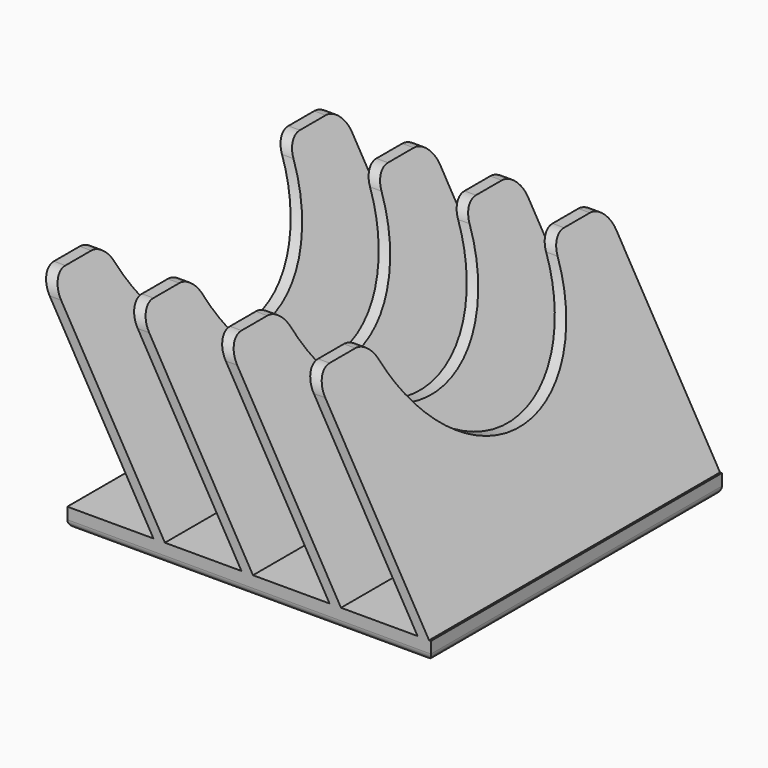
from build123d import *

# Parameters (mm, degrees)
SKETCH024_W     = 95
SKETCH024_H     = 95
PAD016_DEPTH    = 5
PAD017_DEPTH    = 95
SKETCH029_R     = 30
POCKET009_DEPTH = 102.501
FILLET022_R     = 5
FILLET023_R     = 2


with BuildPart() as part:
    # Sketch024 → Pad016 (new body)
    with BuildSketch(Plane.XY):
        Rectangle(SKETCH024_W, SKETCH024_H)
    extrude(amount=PAD016_DEPTH)

    # Sketch025 (on DatumPlane) → Pad017 (join)
    with BuildSketch(Plane(origin=(0, 47.5, 0), x_dir=(-1, 0, 0), z_dir=(0, 1, 0))):
        Polygon((-47, 5), (-17, 56.961524), (-14, 56.961524), (-44, 5), align=None)
        Polygon((-24, 5), (6, 56.961524), (9, 56.961524), (-21, 5), align=None)
        Polygon((-1, 5), (29, 56.961524), (32, 56.961524), (2, 5), align=None)
        Polygon((22, 5), (52, 56.961524), (55, 56.961524), (25, 5), align=None)
    extrude(amount=-PAD017_DEPTH)

    # Sketch029 (on DatumPlane) → Pocket009 (cut, through all)
    with BuildSketch(Plane.YZ.offset(47.5)):
        with Locations((0, 60)):
            Circle(SKETCH029_R)
    extrude(amount=-POCKET009_DEPTH, mode=Mode.SUBTRACT)

    # Fillet022
    fillet022_edges = [part.edges().sort_by_distance(p)[0] for p in [
        (15.5, -47.5, 56.961524),
        (15.5, -29.845731, 56.961524),
        (-7.5, -47.5, 56.961524),
        (-7.5, -29.845731, 56.961524),
        (-30.5, -47.5, 56.961524),
        (-30.5, -29.845731, 56.961524),
        (-53.5, -47.5, 56.961524),
        (-53.5, -29.845731, 56.961524),
        (15.5, 29.845731, 56.961524),
        (15.5, 47.5, 56.961524),
        (-7.5, 29.845731, 56.961524),
        (-7.5, 47.5, 56.961524),
        (-30.5, 29.845731, 56.961524),
        (-30.5, 47.5, 56.961524),
        (-53.5, 29.845731, 56.961524),
        (-53.5, 47.5, 56.961524),
    ]]
    fillet(fillet022_edges, radius=FILLET022_R)

    # Fillet023
    fillet023_edges = [part.edges().sort_by_distance(p)[0] for p in [
        (0, -47.5, 0),
        (47.5, 0, 0),
        (0, 47.5, 0),
        (-47.5, 0, 0),
    ]]
    fillet(fillet023_edges, radius=FILLET023_R)


with BuildPart() as part_1:
    # Body011 placement: moved
    add(part.part.moved(Location((48, 233, 0))))


solid = part_1.part
